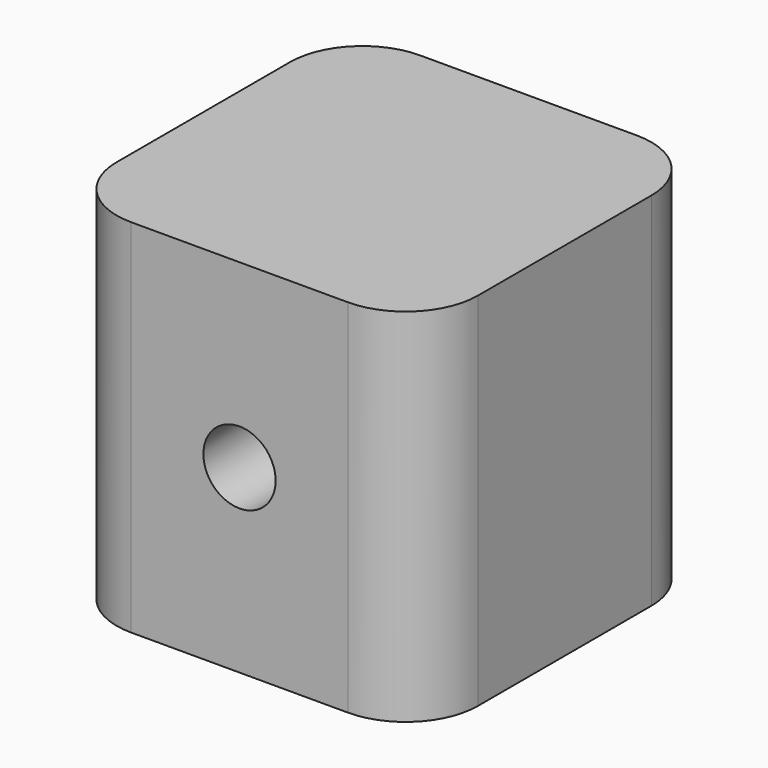
from build123d import *

# Parameters (mm, degrees)
F1_DEPTH = 127
F2_R     = 25.4
F3_R     = 12.7
F4_DEPTH = 127.001


with BuildPart() as f1:
    # F0 (on Top) → F1 (new body)
    with BuildSketch(Plane.XY):
        with BuildLine():
            Line((70.322224, 68.553888), (-31.277776, 68.553888))
            ThreePointArc((-31.277776, 68.553888), (-49.238288, 61.1144), (-56.677776, 43.153888))
            Line((-56.677776, 43.153888), (-56.677776, -58.446112))
            Line((-56.677776, -58.446112), (70.322224, -58.446112))
            Line((70.322224, -58.446112), (70.322224, 68.553888))
        make_face()
    extrude(amount=F1_DEPTH)

    # F2
    f2_edges = [f1.edges().sort_by_distance(p)[0] for p in [
        (70.322224, 68.553888, 63.5),
        (70.322224, -58.446112, 63.5),
        (-56.677776, -58.446112, 63.5),
    ]]
    fillet(f2_edges, radius=F2_R)

    # F3 (on face) → F4 (cut, through all)
    with BuildSketch(Plane.XZ.offset(58.446112)):
        with Locations((6.822224, 63.5)):
            Circle(F3_R)
    extrude(amount=-F4_DEPTH, mode=Mode.SUBTRACT)


solid = f1.part
